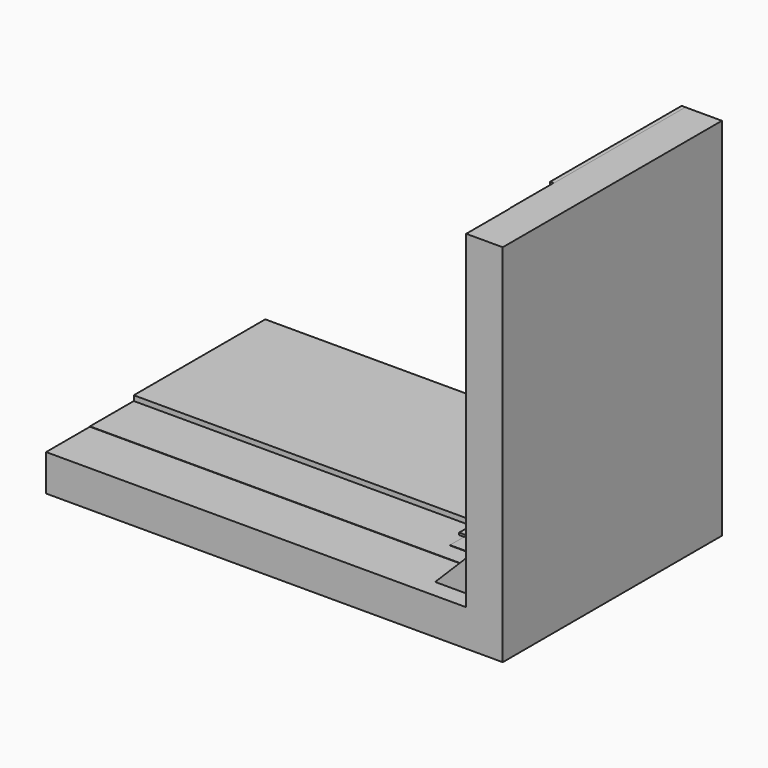
from build123d import *

# Parameters (mm, degrees)
F1_DEPTH = 150
F2_DEPTH = 140
F3_DEPTH = 120
F4_DEPTH = 110
F5_DEPTH = 100
F6_DEPTH = 90


with BuildPart() as f1:
    # F0 (on Front) → F1 (new body)
    with BuildSketch(Plane.XZ):
        Polygon((3.041143, -38.418245), (-201.958857, -38.418245), (-201.958857, -58.418245), (48.041143, -58.418245), (48.041143, 141.581755), (28.041143, 141.581755), (28.041143, -13.418245), (28.041143, -38.418245), align=None)
    extrude(amount=F1_DEPTH)


with BuildPart() as f2:
    # F0 (on Front) → F2 (new body)
    with BuildSketch(Plane.XZ):
        Polygon((28.041143, -13.418245), (3.041143, -38.418245), (28.041143, -38.418245), align=None)
    extrude(amount=F2_DEPTH)


with BuildPart() as f3:
    # F0 (on Front) → F3 (new body)
    with BuildSketch(Plane.XZ):
        Polygon((-201.958857, -38.218245), (-201.958857, -38.418245), (3.041143, -38.418245), (28.041143, -13.418245), (28.041143, 141.581755), (27.841143, 141.581755), (27.841143, 6.968897), (27.841143, 6.396026), (27.841143, -13.418245), (2.805682, -38.218245), (-12.857123, -38.218245), (-15.815426, -38.218245), align=None)
    extrude(amount=F3_DEPTH)


with BuildPart() as f4:
    # F0 (on Front) → F4 (new body)
    with BuildSketch(Plane.XZ):
        Polygon((-12.857123, -38.012717), (-12.857123, -38.218245), (2.805682, -38.218245), (27.841143, -13.418245), (27.841143, 6.396026), (27.663549, 6.396026), (27.663549, -13.277677), (2.693665, -38.012717), align=None)
    extrude(amount=F4_DEPTH)


with BuildPart() as f5:
    # F0 (on Front) → F5 (new body)
    with BuildSketch(Plane.XZ):
        Polygon((-15.815426, -37.012717), (-15.815426, -38.218245), (-12.857123, -38.218245), (-12.857123, -38.012717), (2.693665, -38.012717), (27.663549, -13.277677), (27.663549, 6.396026), (27.841143, 6.396026), (27.841143, 6.968897), (26.641143, 6.968897), (26.641143, -12.672522), (2.069853, -37.012717), align=None)
    extrude(amount=F5_DEPTH)


with BuildPart() as f6:
    # F0 (on Front) → F6 (new body)
    with BuildSketch(Plane.XZ):
        Polygon((-201.958857, -35.43291), (-201.958857, -38.218245), (-15.815426, -38.218245), (-15.815426, -37.012717), (2.069853, -37.012717), (26.641143, -12.672522), (26.641143, 6.968897), (27.841143, 6.968897), (27.841143, 141.581755), (28.041143, 141.581755), (26.041976, 141.63947), (26.041976, 8.26286), (24.915133, 7.146615), (24.915133, -13.277677), (2.59909, -35.383835), (-12.857123, -35.383835), (-20.257614, -35.43291), align=None)
    extrude(amount=F6_DEPTH)


solid = Compound([f1.part, f2.part, f3.part, f4.part, f5.part, f6.part])
